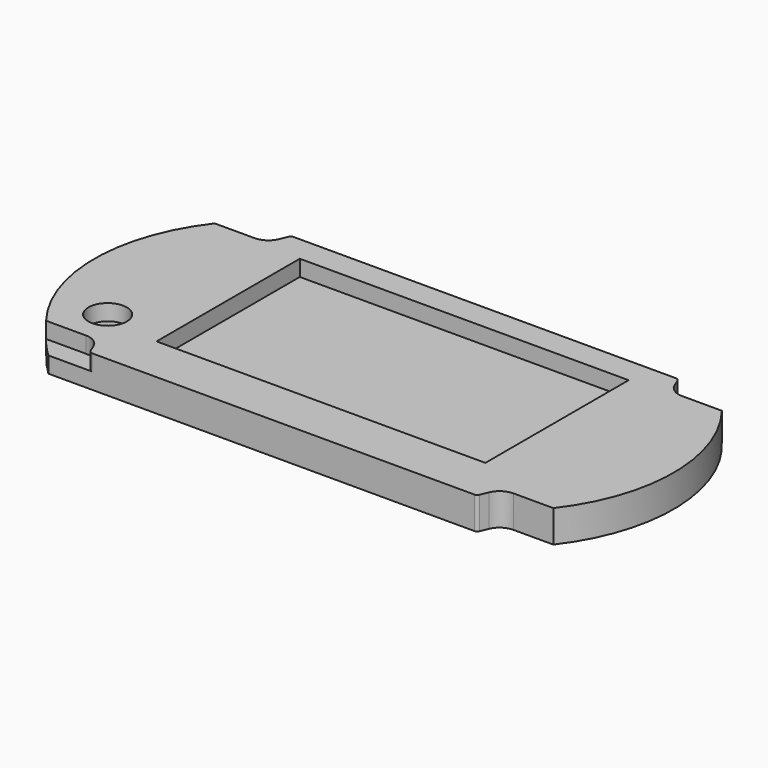
from build123d import *

# Parameters (mm, degrees)
PAD_DEPTH       = 5
POCKET_DEPTH    = 2.5
SKETCH002_R     = 2.9865
SKETCH002_W     = 51.163146
SKETCH002_H     = 27.86
POCKET001_DEPTH = 2.5


with BuildPart() as part:
    # Sketch → Pad (new body)
    with BuildSketch(Plane.XY):
        with BuildLine():
            ThreePointArc((0, 39.2), (-8.533, 19.6), (0, 0))
            Line((66.291934, 0), (0, 0))
            ThreePointArc((66.291934, 0), (66.5985, 0.092754), (66.802226, 0.339902))
            Line((67.312043, 1.560727), (66.802226, 0.339902))
            ThreePointArc((69.773073, 3.2), (68.29457, 2.752666), (67.312043, 1.560727))
            Line((75.990073, 3.2), (69.773073, 3.2))
            ThreePointArc((75.990073, 3.2), (81.512166, 21.767046), (73.067, 39.2))
            Line((0, 39.2), (73.067, 39.2))
        make_face()
    extrude(amount=PAD_DEPTH)

    # Sketch001 (on Face10 of Pad) → Pocket (cut)
    with BuildSketch(Plane.XY.offset(5)):
        with BuildLine():
            Line((-2.923073, 36), (3.293927, 36))
            ThreePointArc((3.293927, 36), (4.77243, 36.447334), (5.754957, 37.639273))
            Line((5.754957, 37.639273), (6.264774, 38.860098))
            ThreePointArc((6.775066, 39.2), (6.4685, 39.107246), (6.264774, 38.860098))
            Line((-2.923073, 39.2), (6.775066, 39.2))
            Line((-2.923073, 39.2), (-2.923073, 36))
        make_face()
        with BuildLine():
            Line((75.990073, 36), (69.773073, 36))
            ThreePointArc((67.312043, 37.639273), (68.29457, 36.447334), (69.773073, 36))
            Line((67.312043, 37.639273), (66.802226, 38.860098))
            ThreePointArc((66.802226, 38.860098), (66.5985, 39.107246), (66.291934, 39.2))
            Line((66.291934, 39.2), (75.990073, 39.2))
            Line((75.990073, 39.2), (75.990073, 36))
        make_face()
        with BuildLine():
            Line((-2.923073, 3.2), (-2.923073, 0))
            Line((-2.923073, 0), (6.775066, 0))
            ThreePointArc((6.264774, 0.339902), (6.4685, 0.092754), (6.775066, 0))
            Line((5.754957, 1.560727), (6.264774, 0.339902))
            ThreePointArc((5.754957, 1.560727), (4.77243, 2.752666), (3.293927, 3.2))
            Line((-2.923073, 3.2), (3.293927, 3.2))
        make_face()
    extrude(amount=-POCKET_DEPTH, mode=Mode.SUBTRACT)

    # Sketch002 (on Face6 of Pocket) → Pocket001 (cut)
    with BuildSketch(Plane.XY.offset(5)):
        with Locations((1.876927, 9.173)):
            Circle(SKETCH002_R)
        with Locations((36.5335, 21.27)):
            Rectangle(SKETCH002_W, SKETCH002_H)
    extrude(amount=-POCKET001_DEPTH, mode=Mode.SUBTRACT)


solid = part.part
